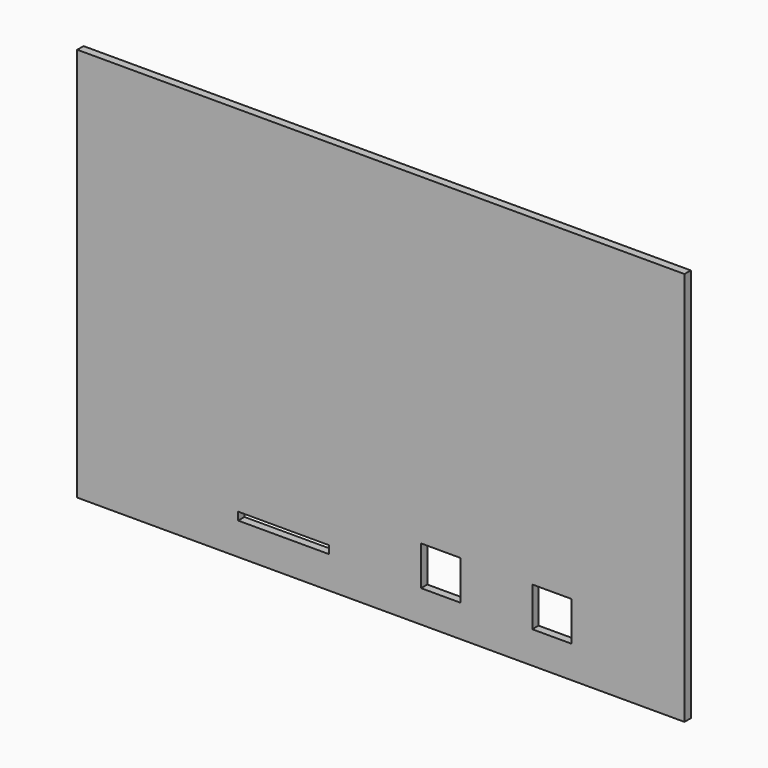
from build123d import *

# Parameters (mm, degrees)
F0_W     = 195.58
F0_H     = 127
F1_DEPTH = 2.54
F2_W     = 29.21
F2_H     = 2.54
F2_W_2   = 12.7
F2_H_2   = 12.7
F3_DEPTH = 2.54


with BuildPart() as f1:
    # F0 (on Front) → F1 (new body)
    with BuildSketch(Plane.XZ):
        Rectangle(F0_W, F0_H)
    extrude(amount=F1_DEPTH)

    # F2 (on face) → F3 (cut)
    with BuildSketch(Plane.XZ.offset(2.54)):
        with Locations((-31.369, -51.8922)):
            Rectangle(F2_W, F2_H)
        with Locations((19.304, -46.8122)):
            Rectangle(F2_W_2, F2_H_2)
        with Locations((55.118, -46.8122)):
            Rectangle(F2_W_2, F2_H_2)
    extrude(amount=-F3_DEPTH, mode=Mode.SUBTRACT)


solid = f1.part
